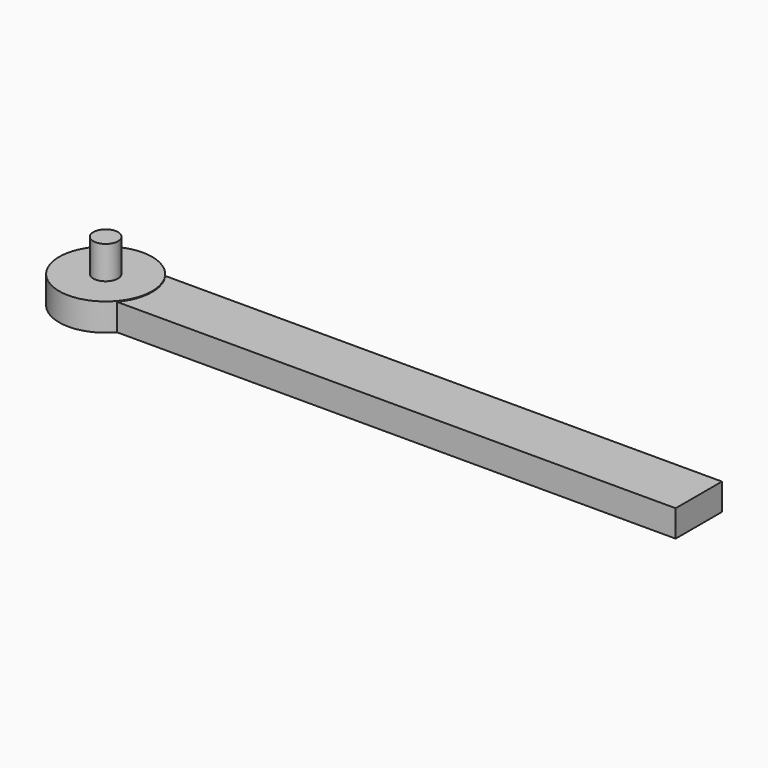
from build123d import *

# Parameters (mm, degrees)
F0_W     = 103.720352
F0_H     = 10.356933
F1_DEPTH = 4.796078
F2_R     = 8.331013
F3_DEPTH = 4.927844
F4_R     = 2.215122
F5_DEPTH = 5.888587


with BuildPart() as f1:
    # F0 (on Top) → F1 (new body)
    with BuildSketch(Plane.XY):
        with Locations((12.965046, 23.803338)):
            Rectangle(F0_W, F0_H)
    extrude(amount=F1_DEPTH)

    # F2 (on Top) → F3 (join)
    with BuildSketch(Plane.XY):
        with Locations((-41.580703, 24.02766)):
            Circle(F2_R)
    extrude(amount=F3_DEPTH)

    # F4 (on face) → F5 (join)
    with BuildSketch(Plane.XY.offset(4.927844)):
        with Locations((-41.580703, 24.02766)):
            Circle(F4_R)
    extrude(amount=F5_DEPTH)


solid = f1.part
